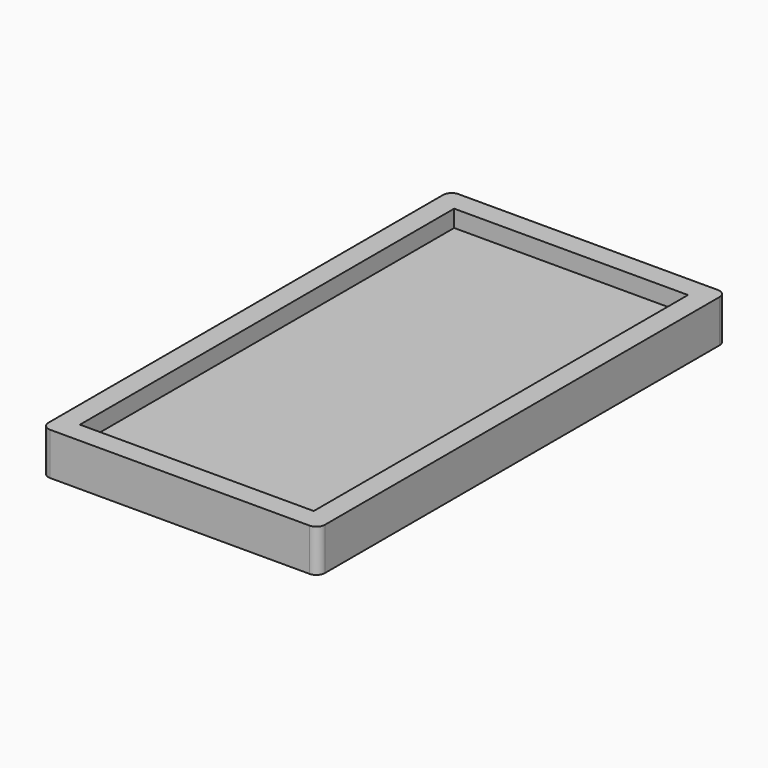
from build123d import *

# Parameters (mm, degrees)
BOX002_W     = 27.49
BOX002_H     = 55
BOX002_DEPTH = 2
BOX_W        = 32.5
BOX_H        = 60
BOX_DEPTH    = 5
FILLET_R     = 1
FILLET001_R  = 1
FILLET002_R  = 1
FILLET003_R  = 1


with BuildPart() as hole_i_frame:
    # Box002 → Box002 (new body)
    with BuildSketch(Plane(origin=(10.1, -51.63, 4), x_dir=(1, 0, 0), z_dir=(0, 0, 1))):
        with Locations((13.745, 27.5)):
            Rectangle(BOX002_W, BOX002_H)
    extrude(amount=BOX002_DEPTH)


with BuildPart() as fillet003:
    # Box → Box (new body)
    with BuildSketch(Plane(origin=(7.6, -54.13, 1), x_dir=(1, 0, 0), z_dir=(0, 0, 1))):
        with Locations((16.25, 30)):
            Rectangle(BOX_W, BOX_H)
    extrude(amount=BOX_DEPTH)

    # Cut: cut Hole i frame
    add(hole_i_frame.part, mode=Mode.SUBTRACT)

    # Fillet
    fillet_edges = [fillet003.edges().sort_by_distance(p)[0] for p in [
        (40.1, 5.87, 3.5),
    ]]
    fillet(fillet_edges, radius=FILLET_R)

    # Fillet001
    fillet001_edges = [fillet003.edges().sort_by_distance(p)[0] for p in [
        (7.6, 5.87, 3.5),
    ]]
    fillet(fillet001_edges, radius=FILLET001_R)

    # Fillet002
    fillet002_edges = [fillet003.edges().sort_by_distance(p)[0] for p in [
        (40.1, -54.13, 3.5),
    ]]
    fillet(fillet002_edges, radius=FILLET002_R)

    # Fillet003
    fillet003_edges = [fillet003.edges().sort_by_distance(p)[0] for p in [
        (7.6, -54.13, 3.5),
    ]]
    fillet(fillet003_edges, radius=FILLET003_R)


with BuildPart() as fillet003_1:
    # Fillet003 placement: moved
    add(fillet003.part.moved(Location((0, 0, 5.5))))


solid = fillet003_1.part
